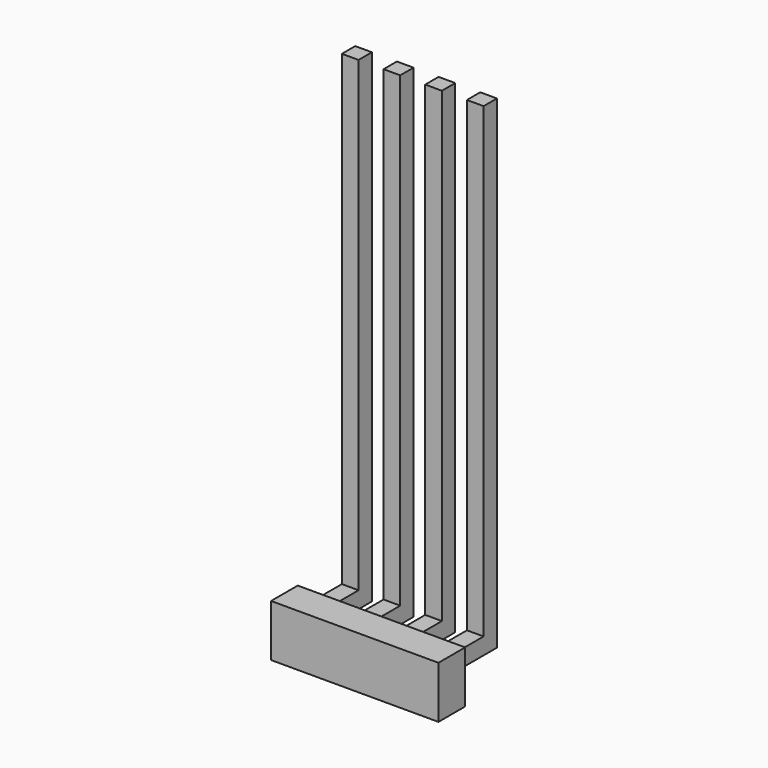
from build123d import *

# Parameters (mm, degrees)
SKETCH004_W  = 5.019769
SKETCH004_H  = 1.561025
PAD002_DEPTH = 1
PAD_DEPTH    = 0.5
PAD001_DEPTH = 0.5
PAD003_DEPTH = 0.5
PAD004_DEPTH = 0.5


with BuildPart() as part:
    # Sketch004 → Pad002 (new body)
    with BuildSketch(Plane.XZ.offset(1.25)):
        with Locations((1.436677, 3.083954)):
            Rectangle(SKETCH004_W, SKETCH004_H)
    extrude(amount=PAD002_DEPTH)

    # Sketch → Pad (join)
    with BuildSketch(Plane.YZ.offset(-0.75)):
        Polygon((-1.5, 3), (0.5, 3), (0.5, 17.5), (0, 17.5), (0, 3.5), (-1.5, 3.5), align=None)
    extrude(amount=PAD_DEPTH)

    # Sketch001 → Pad001 (join)
    with BuildSketch(Plane.YZ.offset(0.5)):
        Polygon((-1.5, 3), (0.5, 3), (0.5, 17.5), (0, 17.5), (0, 3.5), (-1.5, 3.5), align=None)
    extrude(amount=PAD001_DEPTH)

    # Sketch002 → Pad003 (join)
    with BuildSketch(Plane.YZ.offset(1.75)):
        Polygon((-1.5, 3), (0.5, 3), (0.5, 17.5), (0, 17.5), (0, 3.5), (-1.5, 3.5), align=None)
    extrude(amount=PAD003_DEPTH)

    # Sketch003 → Pad004 (join)
    with BuildSketch(Plane.YZ.offset(3)):
        Polygon((-1.5, 3), (0.5, 3), (0.5, 17.5), (0, 17.5), (0, 3.5), (-1.5, 3.5), align=None)
    extrude(amount=PAD004_DEPTH)


solid = part.part
